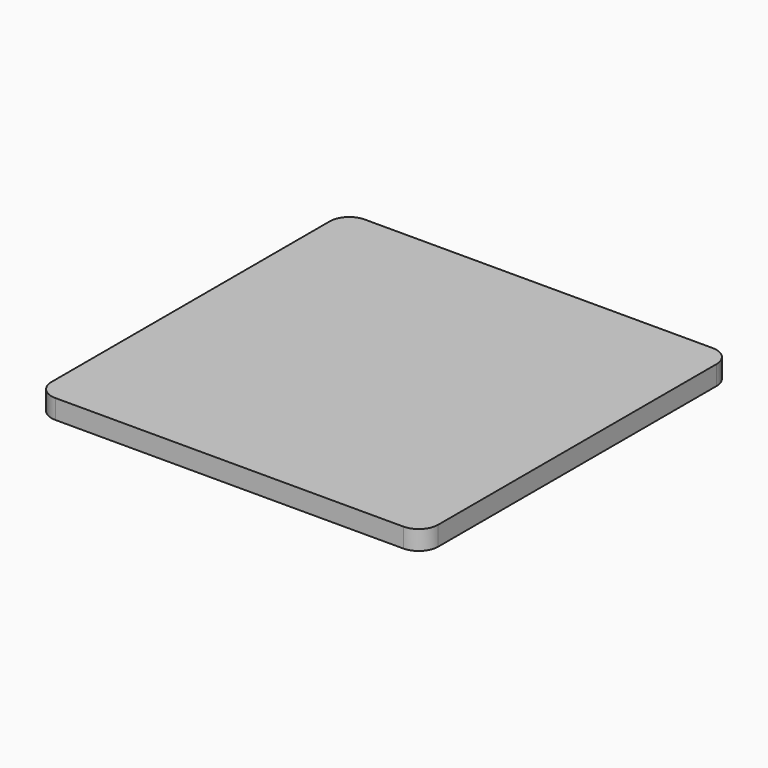
from build123d import *

# Parameters (mm, degrees)
F0_W     = 100
F0_H     = 100
F1_DEPTH = 5
F2_R     = 5


with BuildPart() as f1:
    # F0 (on Top) → F1 (new body)
    with BuildSketch(Plane.XY):
        Rectangle(F0_W, F0_H)
    extrude(amount=-F1_DEPTH)

    # F2
    f2_edges = [f1.edges().sort_by_distance(p)[0] for p in [
        (50, -50, -2.5),
        (-50, -50, -2.5),
        (50, 50, -2.5),
        (-50, 50, -2.5),
    ]]
    fillet(f2_edges, radius=F2_R)


solid = f1.part
